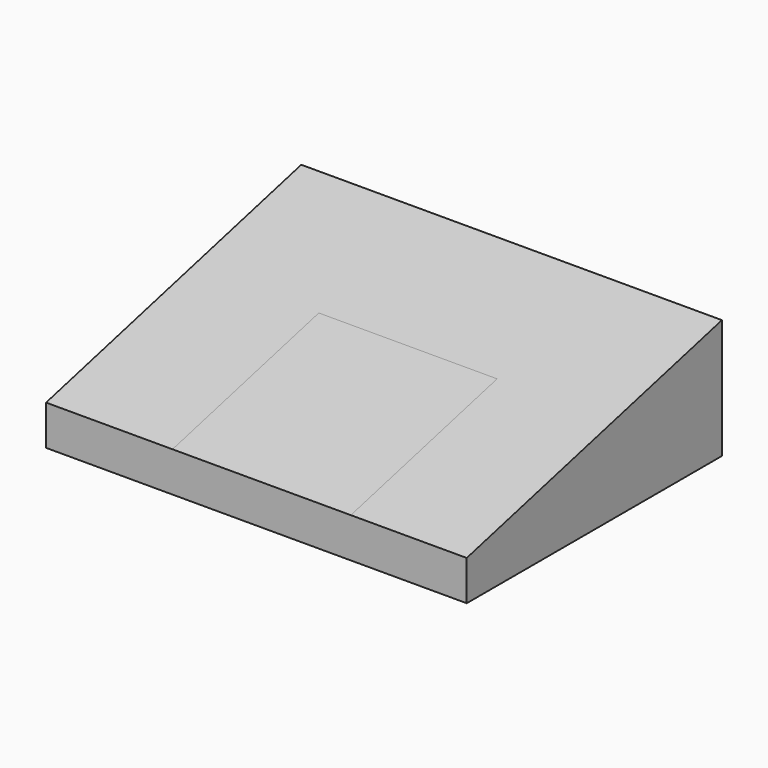
from build123d import *

# Parameters (mm, degrees)
F1_DEPTH = 2679.7
F2_W     = 1135.899424
F2_H     = 1626.373622
F3_DEPTH = 254


with BuildPart() as f1:
    # F0 (on Right) → F1 (new body)
    with BuildSketch(Plane.YZ):
        Polygon((725.958003, 0), (725.958003, 761.778718), (-1306.041997, 254), (-1306.041997, 0), align=None)
    extrude(amount=F1_DEPTH)

    # F2 (on face) → F3 (join)
    with BuildSketch(Plane(origin=(0, -136.504751, 546.25695), x_dir=(1, 0, 0), z_dir=(0, -0.242436, 0.970167))):
        with Locations((1373.43055, -392.313705)):
            Rectangle(F2_W, F2_H)
    extrude(amount=-F3_DEPTH)


solid = f1.part
